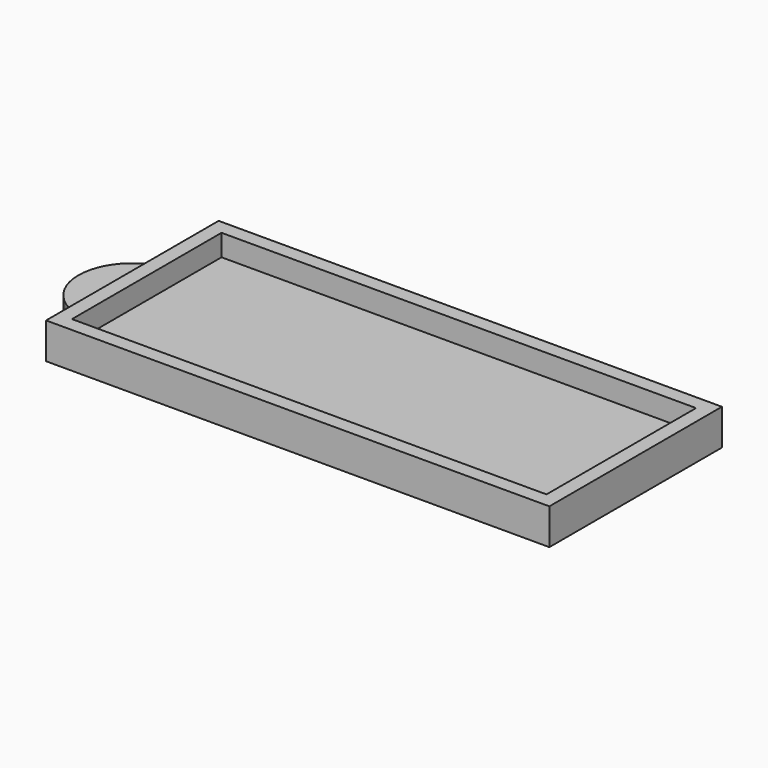
from build123d import *

# Parameters (mm, degrees)
F0_W     = 88.9
F0_H     = 38.1
F1_DEPTH = 6.35
F2_T     = -2.54
F4_DEPTH = 2.54


with BuildPart() as f1:
    # F0 (on Top) → F1 (new body)
    with BuildSketch(Plane.XY):
        Rectangle(F0_W, F0_H)
    extrude(amount=F1_DEPTH)

    # F2
    f2_openings = [f1.faces().sort_by_distance(p)[0] for p in [
        (0, 0, 6.35),
    ]]
    offset(amount=F2_T, openings=f2_openings)

    # F3 (on face) → F4 (join)
    with BuildSketch(Plane(origin=(0, 0, 0), x_dir=(1, 0, 0), z_dir=(0, 0, -1))):
        with BuildLine():
            Line((-44.45, -9.525), (-44.45, 9.525))
            ThreePointArc((-44.45, 9.525), (-53.975, 0), (-44.45, -9.525))
        make_face()
    extrude(amount=-F4_DEPTH)


solid = f1.part
